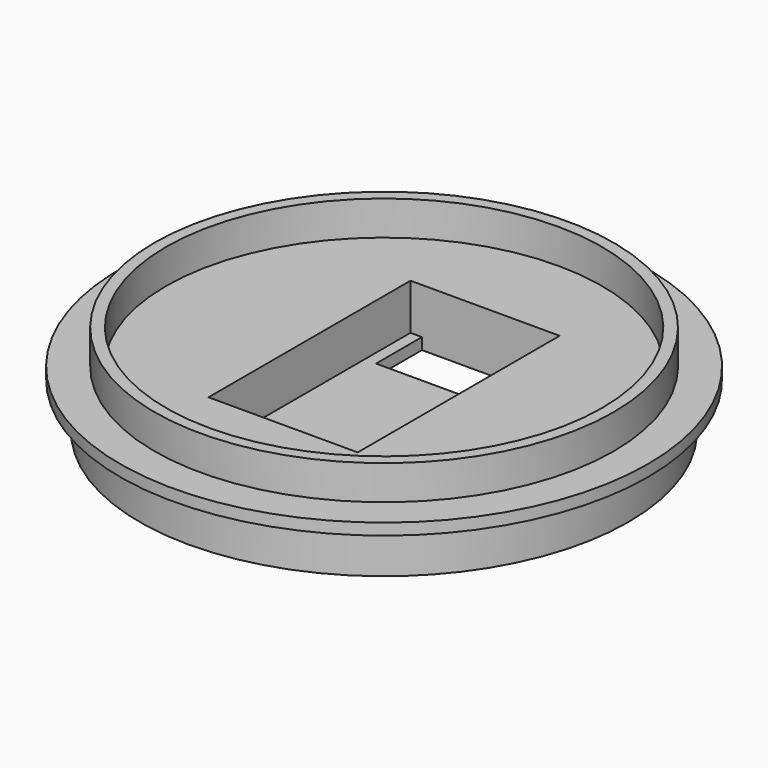
from build123d import *

# Parameters (mm, degrees)
SKETCH_R        = 23
PAD_DEPTH       = 5
SKETCH001_W     = 13
SKETCH001_H     = 22
POCKET_DEPTH    = 4
SKETCH002_W     = 11
SKETCH002_H     = 5
POCKET001_DEPTH = 1.001
SKETCH008_R     = 20
SKETCH008_R_2   = 19
PAD005_DEPTH    = 3
SKETCH011_R     = 23
SKETCH011_R_2   = 21.3
POCKET002_DEPTH = 4


with BuildPart() as part:
    # Sketch → Pad (new body)
    with BuildSketch(Plane.XY):
        Circle(SKETCH_R)
    extrude(amount=PAD_DEPTH)

    # Sketch001 (on Face3 of Pad) → Pocket (cut)
    with BuildSketch(Plane.XY.offset(5)):
        Rectangle(SKETCH001_W, SKETCH001_H)
    extrude(amount=-POCKET_DEPTH, mode=Mode.SUBTRACT)

    # Sketch002 (on Face8 of Pocket) → Pocket001 (cut, through all)
    with BuildSketch(Plane.XY.offset(1)):
        with Locations((0, 8.5)):
            Rectangle(SKETCH002_W, SKETCH002_H)
    extrude(amount=-POCKET001_DEPTH, mode=Mode.SUBTRACT)

    # Sketch008 → Pad005 (join)
    with BuildSketch(Plane.XY.offset(5)):
        Circle(SKETCH008_R)
        Circle(SKETCH008_R_2, mode=Mode.SUBTRACT)
    extrude(amount=PAD005_DEPTH)

    # Sketch011 (on Face2 of Pad005) → Pocket002 (cut)
    with BuildSketch(Plane(origin=(0, 0, 0), x_dir=(1, 0, 0), z_dir=(0, 0, -1))):
        Circle(SKETCH011_R)
        Circle(SKETCH011_R_2, mode=Mode.SUBTRACT)
    extrude(amount=-POCKET002_DEPTH, mode=Mode.SUBTRACT)


solid = part.part
